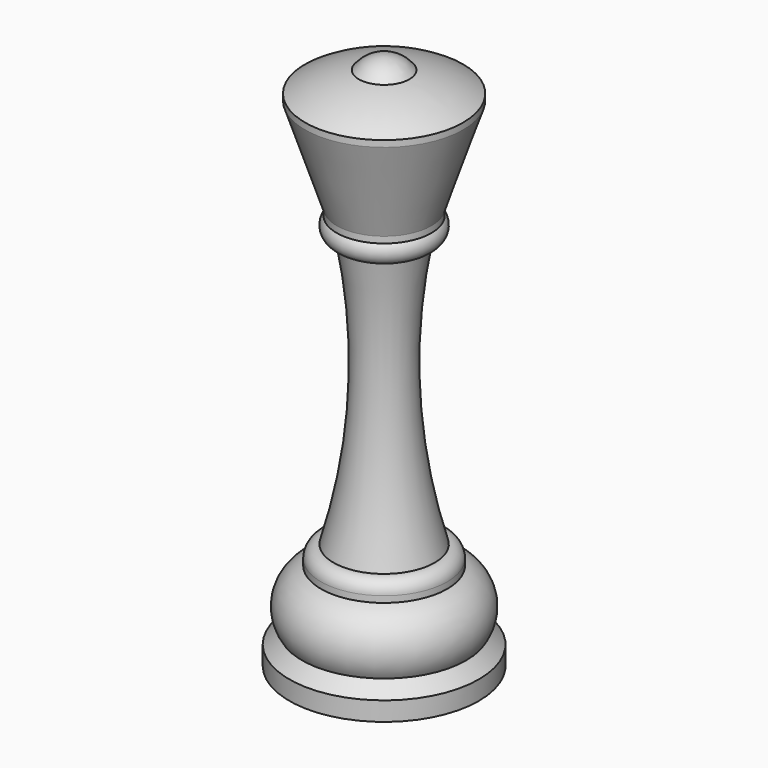
from build123d import *


with BuildPart() as f1:
    # F0 (on Front) → F1 (revolve)
    with BuildSketch(Plane.XZ):
        with BuildLine():
            ThreePointArc((12.5, -5.27), (8.410453, -3.21792), (4, -2))
            ThreePointArc((4, -2), (2.236068, -0.527864), (0, 0))
            Line((0, 0), (0, -84.992876))
            Line((0, -84.992876), (15, -84.992876))
            Line((15, -84.992876), (15, -81.992876))
            Line((15, -81.992876), (13, -79.992876))
            ThreePointArc((13, -79.992876), (13.690372, -74.77531), (10, -71.022876))
            Line((10, -71.022876), (10, -70.022876))
            ThreePointArc((10, -70.022876), (9.414214, -68.608662), (8, -68.022876))
            ThreePointArc((8, -68.022876), (4.460945, -46.927558), (6, -25.592876))
            ThreePointArc((6, -25.592876), (7.822876, -24.415751), (7.5, -22.27))
            Line((7.5, -22.27), (7.5, -21.27))
            Line((7.5, -21.27), (12.5, -6.27))
            Line((12.5, -6.27), (12.5, -5.27))
        make_face()
    revolve(axis=Axis((0, 0, -42.496438), (0, 0, 1)))


solid = f1.part
